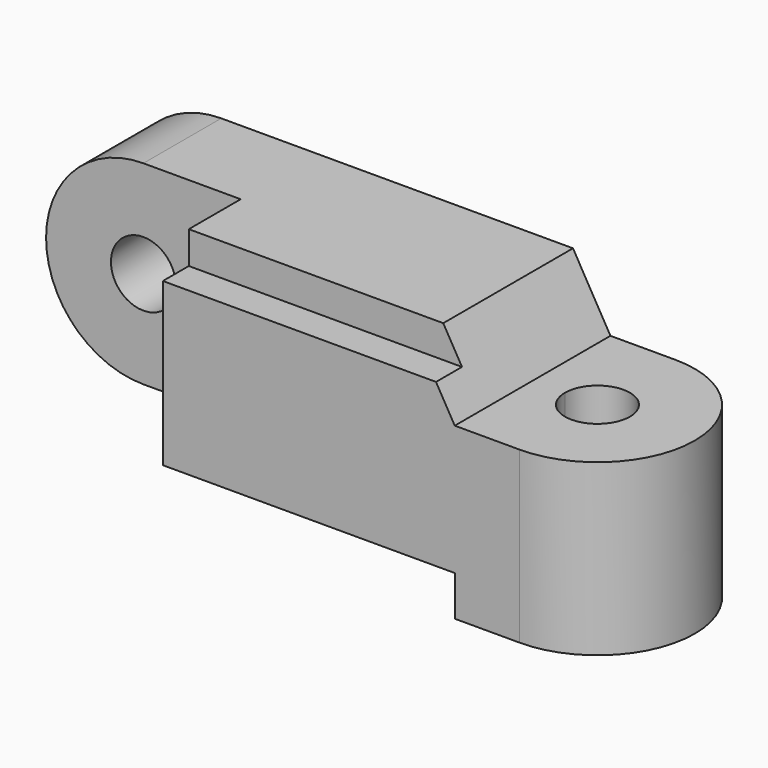
from build123d import *

# Parameters (mm, degrees)
F0_W      = 177.8
F0_H      = 76.2
F1_DEPTH  = 76.2
F2_W      = 38.1
F2_H      = 38.1
F3_DEPTH  = 76.2
F4_W      = 25.4
F4_H      = 76.2
F5_DEPTH  = 25.4
F6_W      = 25.4
F6_H      = 76.2
F7_DEPTH  = 15.748
F8_W      = 38.1
F8_H      = 38.1
F10_W     = 38.1
F10_H     = 66.548
F13_DEPTH = 76.2
F15_DEPTH = 101.6
F17_DEPTH = 15.748
F19_DEPTH = 38.1
F20_W     = 12.7
F20_H     = 12.7
F21_DEPTH = 127


with BuildPart() as f1:
    # F0 (on Top) → F1 (new body)
    with BuildSketch(Plane.XY):
        Rectangle(F0_W, F0_H)
    extrude(amount=F1_DEPTH)

    # F2 (on face) → F3 (cut)
    with BuildSketch(Plane.XY.offset(76.2)):
        with Locations((-69.85, -19.05)):
            Rectangle(F2_W, F2_H)
    extrude(amount=-F3_DEPTH, mode=Mode.SUBTRACT)

    # F4 (on face) → F5 (cut)
    with BuildSketch(Plane.XY.offset(76.2)):
        with Locations((76.2, 0)):
            Rectangle(F4_W, F4_H)
    extrude(amount=-F5_DEPTH, mode=Mode.SUBTRACT)

    # F6 (on face) → F7 (join)
    with BuildSketch(Plane(origin=(0, 0, 0), x_dir=(1, 0, 0), z_dir=(0, 0, -1))):
        with Locations((76.2, 0)):
            Rectangle(F6_W, F6_H)
    extrude(amount=F7_DEPTH)

    # F8 (on face) → F9 (revolve)
    with BuildSketch(Plane(origin=(-88.9, 0, 0), x_dir=(0, -1, 0), z_dir=(-1, 0, 0))):
        with Locations((-19.05, 57.15)):
            Rectangle(F8_W, F8_H)
    revolve(axis=Axis((-88.9, 19.05, 38.1), (0, -1, 0)))

    # F10 (on face) → F11 (revolve)
    with BuildSketch(Plane.YZ.offset(88.9)):
        with Locations((19.05, 17.526)):
            Rectangle(F10_W, F10_H)
    revolve(axis=Axis((88.9, 0, 17.526), (0, 0, -1)))

    # F12 (on face) → F13 (cut)
    with BuildSketch(Plane.XZ.offset(38.1)):
        Polygon((48.835303, 76.2), (63.5, 50.8), (63.5, 76.2), align=None)
    extrude(amount=-F13_DEPTH, mode=Mode.SUBTRACT)

    # F14 (on face) → F15 (cut)
    with BuildSketch(Plane.XY.offset(50.8)):
        with BuildLine():
            ThreePointArc((76.2, 0), (79.919744, -8.980256), (88.9, -12.7))
            Line((88.9, -12.7), (88.9, 0))
            Line((88.9, 0), (76.2, 0))
        make_face()
        with BuildLine():
            Line((88.9, 0), (88.9, -12.7))
            ThreePointArc((88.9, -12.7), (97.880256, -8.980256), (101.6, 0))
            ThreePointArc((101.6, 0), (88.9, 12.7), (76.2, 0))
            Line((76.2, 0), (88.9, 0))
        make_face()
    extrude(amount=-F15_DEPTH, mode=Mode.SUBTRACT)

    # F16 (on face) → F17 (cut)
    with BuildSketch(Plane(origin=(0, 0, -15.748), x_dir=(1, 0, 0), z_dir=(0, 0, -1))):
        with BuildLine():
            Line((63.5, -28.398063), (63.5, 28.398063))
            ThreePointArc((63.5, 28.398063), (50.8, 0), (63.5, -28.398063))
        make_face()
    extrude(amount=-F17_DEPTH, mode=Mode.SUBTRACT)

    # F18 (on face) → F19 (cut)
    with BuildSketch(Plane.XZ):
        with BuildLine():
            ThreePointArc((-76.2, 38.1), (-79.919744, 47.080256), (-88.9, 50.8))
            Line((-88.9, 50.8), (-88.9, 38.1))
            Line((-88.9, 38.1), (-76.2, 38.1))
        make_face()
        with BuildLine():
            Line((-88.9, 38.1), (-88.9, 50.8))
            ThreePointArc((-88.9, 50.8), (-97.880256, 29.119744), (-76.2, 38.1))
            Line((-76.2, 38.1), (-88.9, 38.1))
        make_face()
    extrude(amount=-F19_DEPTH, mode=Mode.SUBTRACT)

    # F20 (on face) → F21 (cut)
    with BuildSketch(Plane(origin=(-50.8, 0, 0), x_dir=(0, -1, 0), z_dir=(-1, 0, 0))):
        with Locations((31.75, 69.85)):
            Rectangle(F20_W, F20_H)
    extrude(amount=-F21_DEPTH, mode=Mode.SUBTRACT)


solid = f1.part
